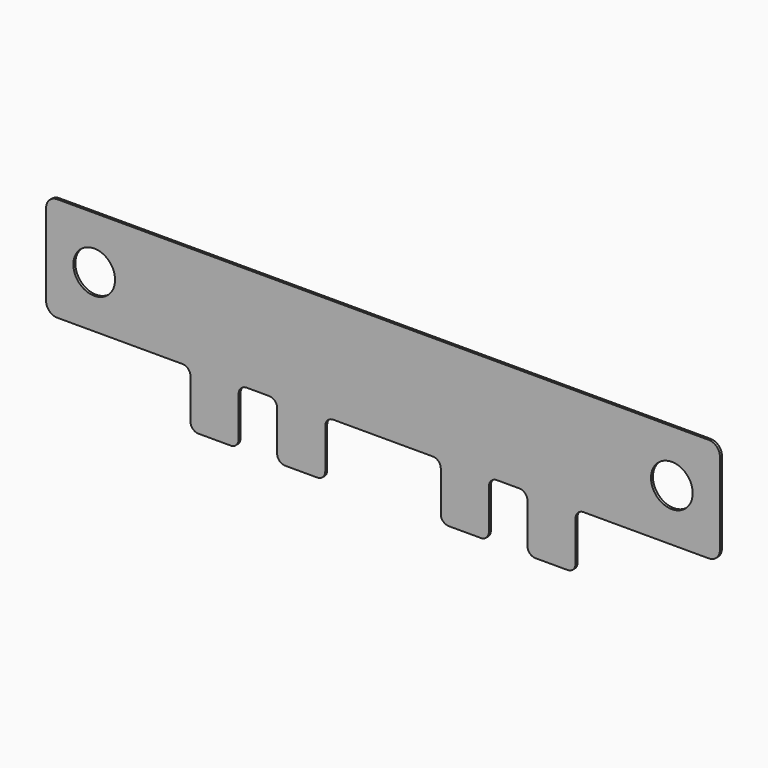
from build123d import *

# Parameters (mm, degrees)
F0_R     = 1.3
F1_DEPTH = 0.1524


with BuildPart() as f1:
    # F0 (on Front) → F1 (new body)
    with BuildSketch(Plane.XZ):
        with BuildLine():
            Line((-4.8, 0), (0, 0))
            Line((0, 0), (3, 0))
            ThreePointArc((3, 0), (3.353553, -0.146447), (3.5, -0.5))
            Line((3.5, -0.5), (3.5, -3))
            ThreePointArc((3.5, -3), (3.646447, -3.353553), (4, -3.5))
            Line((4, -3.5), (6, -3.5))
            ThreePointArc((6, -3.5), (6.353553, -3.353553), (6.5, -3))
            Line((6.5, -3), (6.5, -0.5))
            ThreePointArc((6.5, -0.5), (6.646447, -0.146447), (7, 0))
            Line((7, 0), (8.4, 0))
            ThreePointArc((8.4, 0), (8.753553, -0.146447), (8.9, -0.5))
            Line((8.9, -0.5), (8.9, -3))
            ThreePointArc((8.9, -3), (9.046447, -3.353553), (9.4, -3.5))
            Line((9.4, -3.5), (11.4, -3.5))
            ThreePointArc((11.4, -3.5), (11.753553, -3.353553), (11.9, -3))
            Line((11.9, -3), (11.9, -0.5))
            ThreePointArc((11.9, -0.5), (12.046447, -0.146447), (12.4, 0))
            Line((12.4, 0), (18.6, 0))
            ThreePointArc((18.6, 0), (18.953553, -0.146447), (19.1, -0.5))
            Line((19.1, -0.5), (19.1, -3))
            ThreePointArc((19.1, -3), (19.246447, -3.353553), (19.6, -3.5))
            Line((19.6, -3.5), (21.6, -3.5))
            ThreePointArc((21.6, -3.5), (21.953553, -3.353553), (22.1, -3))
            Line((22.1, -3), (22.1, -0.5))
            ThreePointArc((22.1, -0.5), (22.246447, -0.146447), (22.6, 0))
            Line((22.6, 0), (24, 0))
            ThreePointArc((24, 0), (24.353553, -0.146447), (24.5, -0.5))
            Line((24.5, -0.5), (24.5, -3))
            ThreePointArc((24.5, -3), (24.646447, -3.353553), (25, -3.5))
            Line((25, -3.5), (27, -3.5))
            ThreePointArc((27, -3.5), (27.353553, -3.353553), (27.5, -3))
            Line((27.5, -3), (27.5, -0.5))
            ThreePointArc((27.5, -0.5), (27.646447, -0.146447), (28, 0))
            Line((28, 0), (31, 0))
            Line((31, 0), (35.8, 0))
            ThreePointArc((35.8, 0), (36.294975, 0.205025), (36.5, 0.7))
            Line((36.5, 0.7), (36.5, 5.8))
            ThreePointArc((36.5, 5.8), (36.294975, 6.294975), (35.8, 6.5))
            Line((35.8, 6.5), (31, 6.5))
            Line((31, 6.5), (0, 6.5))
            Line((0, 6.5), (-4.8, 6.5))
            ThreePointArc((-4.8, 6.5), (-5.294975, 6.294975), (-5.5, 5.8))
            Line((-5.5, 5.8), (-5.5, 0.7))
            ThreePointArc((-5.5, 0.7), (-5.294975, 0.205025), (-4.8, 0))
        make_face()
        with Locations((-2.5, 3.25)):
            Circle(F0_R, mode=Mode.SUBTRACT)
        with Locations((33.5, 3.25)):
            Circle(F0_R, mode=Mode.SUBTRACT)
    extrude(amount=F1_DEPTH)


solid = f1.part
